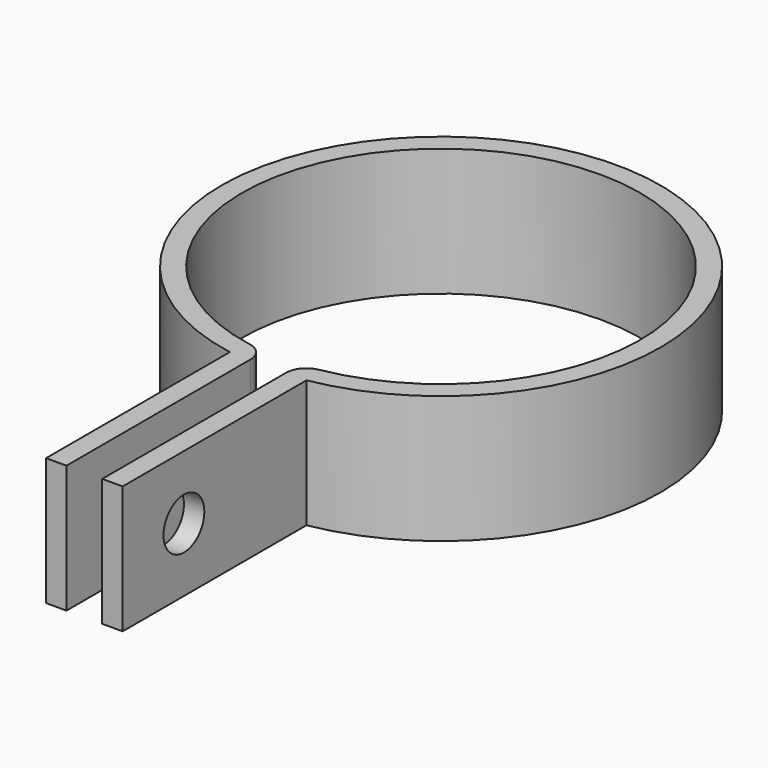
from build123d import *

# Parameters (mm, degrees)
F1_DEPTH = 10
F2_R     = 2
F3_DEPTH = 30


with BuildPart() as f1:
    # F0 (on Top) → F1 (new body)
    with BuildSketch(Plane.XY):
        with BuildLine():
            ThreePointArc((-2.72093, -15.360877), (0, 15.6), (2.72093, -15.360877))
            ThreePointArc((2.72093, -15.360877), (1.773927, -15.908371), (1.4, -16.936351))
            Line((1.4, -16.936351), (1.4, -34.936351))
            Line((1.4, -34.936351), (3, -34.936351))
            Line((3, -34.936351), (3, -16.936351))
            ThreePointArc((3, -16.936351), (0, 17.2), (-3, -16.936351))
            Line((-3, -16.936351), (-3, -34.936351))
            Line((-3, -34.936351), (-1.4, -34.936351))
            Line((-1.4, -34.936351), (-1.4, -16.936351))
            ThreePointArc((-1.4, -16.936351), (-1.773927, -15.908371), (-2.72093, -15.360877))
        make_face()
    extrude(amount=F1_DEPTH)

    # F2 (on face) → F3 (cut)
    with BuildSketch(Plane.YZ.offset(3)):
        with Locations((-28.936351, 5)):
            Circle(F2_R)
    extrude(amount=-F3_DEPTH, mode=Mode.SUBTRACT)


solid = f1.part
